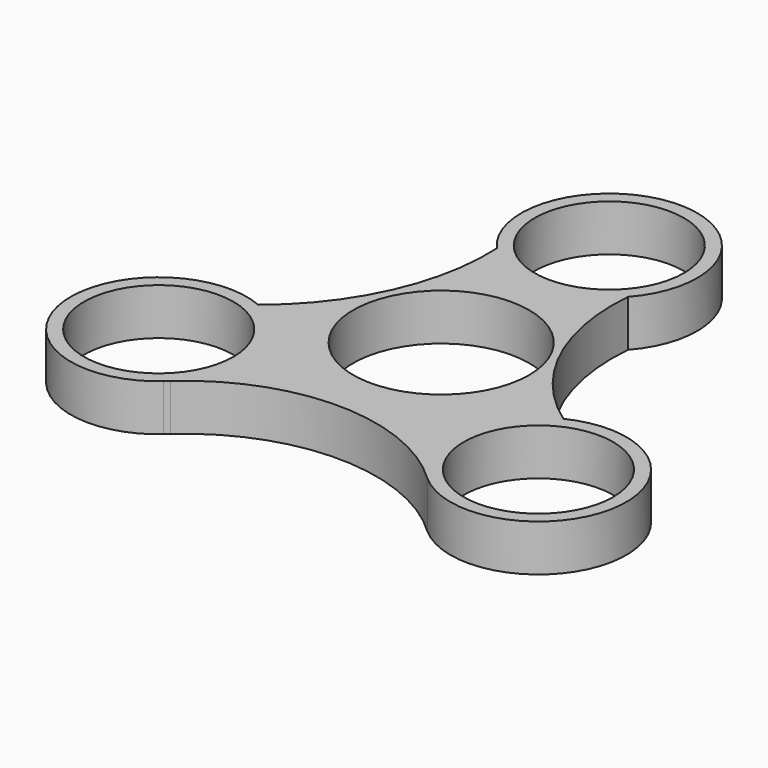
from build123d import *

# Parameters (mm, degrees)
F0_R     = 11.2
F0_R_2   = 13.2
F1_DEPTH = 7


with BuildPart() as f1:
    # F0 (on Top) → F1 (new body)
    with BuildSketch(Plane.XY):
        with BuildLine():
            ThreePointArc((23.249343, -6.161067), (12.69888, 6.501125), (9.844136, 22.733617))
            ThreePointArc((9.844136, 22.733617), (0, 44.727534), (-9.844136, 22.733617))
            ThreePointArc((-9.844136, 22.733617), (-12.844674, 6.862198), (-22.734885, -5.908427))
            ThreePointArc((-22.734885, -5.908427), (-40.988875, -20.078762), (-19.275475, -27.986657))
            ThreePointArc((-19.275475, -27.986657), (-18.967041, -27.695625), (-18.654331, -27.409191))
            ThreePointArc((-18.654331, -27.409191), (0.957444, -20.034418), (20.342255, -27.986657))
            ThreePointArc((20.342255, -27.986657), (42.099214, -19.778202), (23.249343, -6.161067))
        make_face()
        with Locations((-27.94799, -18.035403)):
            Circle(F0_R, mode=Mode.SUBTRACT)
        Circle(F0_R_2, mode=Mode.SUBTRACT)
        with Locations((29.014771, -18.035403)):
            Circle(F0_R, mode=Mode.SUBTRACT)
        with Locations((0, 31.527534)):
            Circle(F0_R, mode=Mode.SUBTRACT)
    extrude(amount=F1_DEPTH)


solid = f1.part
